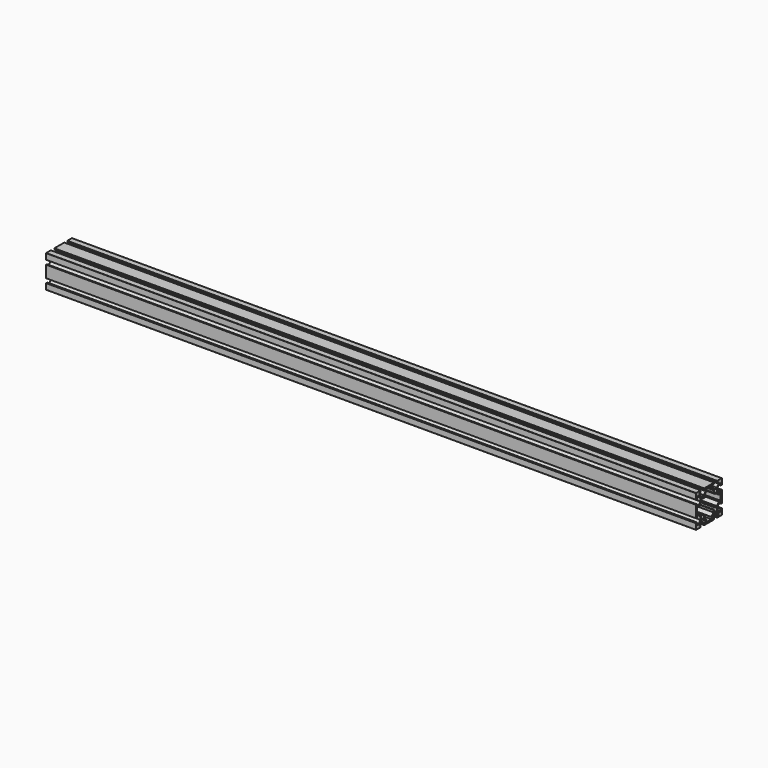
from build123d import *

# Parameters (mm, degrees)
F1_DEPTH = 1200
F2_R     = 0.5


with BuildPart() as f1:
    # F0 (on Right) → F1 (new body)
    with BuildSketch(Plane.YZ):
        with BuildLine():
            Line((-47.932279, 54.389084), (-46.610482, 52.97405))
            Line((-46.610482, 52.97405), (-42.981779, 49.089383))
            Line((-42.981779, 49.089383), (-42.981779, 45.339383))
            Line((-42.981779, 45.339383), (-31.658049, 45.339383))
            Line((-31.658049, 45.339383), (-31.658049, 49.089383))
            Line((-31.658049, 49.089383), (-26.70755, 54.389084))
            Line((-26.70755, 54.389084), (-26.70755, 58.361686))
            Line((-26.70755, 58.361686), (-25.56953, 58.361686))
            ThreePointArc((-25.56953, 58.361686), (-19.915751, 54.957523), (-23.319914, 60.611301))
            Line((-23.319914, 60.611301), (-23.319914, 61.749321))
            Line((-23.319914, 61.749321), (-19.347313, 61.749321))
            Line((-19.347313, 61.749321), (-14.047611, 66.699821))
            Line((-14.047611, 66.699821), (-10.297611, 66.699821))
            Line((-10.297611, 66.699821), (-10.297611, 78.02355))
            Line((-10.297611, 78.02355), (-14.047611, 78.02355))
            Line((-14.047611, 78.02355), (-19.347313, 82.97405))
            Line((-19.347313, 82.97405), (-23.319914, 82.97405))
            Line((-23.319914, 82.97405), (-23.319914, 84.11207))
            ThreePointArc((-23.319914, 84.11207), (-19.915751, 89.765849), (-25.56953, 86.361686))
            Line((-25.56953, 86.361686), (-26.70755, 86.361686))
            Line((-26.70755, 86.361686), (-26.70755, 90.334287))
            Line((-26.70755, 90.334287), (-31.658049, 95.633989))
            Line((-31.658049, 95.633989), (-31.658049, 99.383989))
            Line((-31.658049, 99.383989), (-42.981779, 99.383989))
            Line((-42.981779, 99.383989), (-42.981779, 95.633989))
            Line((-42.981779, 95.633989), (-47.932279, 90.334287))
            Line((-47.932279, 90.334287), (-47.932279, 86.361686))
            Line((-47.932279, 86.361686), (-49.070299, 86.361686))
            ThreePointArc((-49.070299, 86.361686), (-54.724077, 89.765849), (-51.319914, 84.11207))
            Line((-51.319914, 84.11207), (-51.319914, 82.97405))
            Line((-51.319914, 82.97405), (-55.292516, 82.97405))
            Line((-55.292516, 82.97405), (-60.592217, 78.02355))
            Line((-60.592217, 78.02355), (-64.342217, 78.02355))
            Line((-64.342217, 78.02355), (-64.342217, 66.699821))
            Line((-64.342217, 66.699821), (-60.592217, 66.699821))
            Line((-60.592217, 66.699821), (-55.292516, 61.749321))
            Line((-55.292516, 61.749321), (-52.030215, 61.749321))
            Line((-52.030215, 61.749321), (-52.030215, 60.749321))
            ThreePointArc((-52.030215, 60.749321), (-54.454601, 54.715346), (-49.070299, 58.361686))
            Line((-49.070299, 58.361686), (-47.932279, 58.361686))
            Line((-47.932279, 58.361686), (-47.932279, 54.389084))
        make_face()
        Polygon((-7.319914, 91.383989), (-7.319914, 102.361686), (-18.319914, 102.361686), (-18.319914, 99.449821), (-15.008826, 99.449821), (-15.008826, 96.393839), (-19.347313, 91.749321), (-23.120943, 91.749321), (-25.292516, 91.749321), (-29.631003, 96.393839), (-29.631003, 99.315412), (-29.631003, 100.315412), (-25.381003, 100.315412), (-25.381003, 102.361686), (-48.319914, 102.361686), (-48.319914, 100.361686), (-45.008826, 100.361686), (-45.008826, 96.393839), (-49.347313, 91.749321), (-55.292516, 91.749321), (-59.631003, 96.393839), (-59.631003, 99.449821), (-56.319914, 99.449821), (-56.319914, 102.361686), (-67.319914, 102.361686), (-67.319914, 91.361686), (-64.408049, 91.361686), (-64.408049, 95.633989), (-61.658049, 95.633989), (-56.70755, 90.334287), (-56.70755, 84.389084), (-61.352068, 80.050597), (-65.319914, 80.050597), (-65.319914, 83.361686), (-67.319914, 83.361686), (-67.319914, 61.361686), (-65.319914, 61.361686), (-65.319914, 64.672774), (-61.352068, 64.672774), (-56.70755, 60.334287), (-56.70755, 54.389084), (-61.658049, 49.089383), (-64.408049, 49.089383), (-64.408049, 53.361686), (-67.319914, 53.361686), (-67.319914, 42.361686), (-56.319914, 42.361686), (-56.319914, 45.27355), (-59.631003, 45.27355), (-59.631003, 48.329532), (-55.292516, 52.97405), (-49.347313, 52.97405), (-45.008826, 48.329532), (-45.008826, 44.361686), (-48.319914, 44.361686), (-48.319914, 42.361686), (-25.381003, 42.361686), (-25.381003, 44.407959), (-29.631003, 44.407959), (-29.631003, 45.407959), (-29.631003, 48.329532), (-25.292516, 52.97405), (-23.120943, 52.97405), (-19.347313, 52.97405), (-15.008826, 48.329532), (-15.008826, 45.27355), (-18.319914, 45.27355), (-18.319914, 42.361686), (-7.319914, 42.361686), (-7.319914, 53.339383), (-10.231779, 53.339383), (-10.231779, 49.089383), (-12.981779, 49.089383), (-17.932279, 54.389084), (-17.932279, 60.334287), (-13.28776, 64.672774), (-9.319914, 64.672774), (-9.319914, 61.361686), (-7.319914, 61.361686), (-7.319914, 83.361686), (-9.319914, 83.361686), (-9.319914, 80.050597), (-13.28776, 80.050597), (-17.932279, 84.389084), (-17.932279, 90.334287), (-12.981779, 95.633989), (-10.231779, 95.633989), (-10.231779, 91.383989), align=None)
        with BuildLine():
            Line((-42.981779, 49.089383), (-46.610482, 52.97405))
            Line((-46.610482, 52.97405), (-47.932279, 54.389084))
            Line((-47.932279, 54.389084), (-47.932279, 58.361686))
            Line((-47.932279, 58.361686), (-49.070299, 58.361686))
            ThreePointArc((-49.070299, 58.361686), (-54.454601, 54.715346), (-52.030215, 60.749321))
            Line((-52.030215, 60.749321), (-52.030215, 61.749321))
            Line((-52.030215, 61.749321), (-55.292516, 61.749321))
            Line((-55.292516, 61.749321), (-60.592217, 66.699821))
            Line((-60.592217, 66.699821), (-64.342217, 66.699821))
            Line((-64.342217, 66.699821), (-64.342217, 78.02355))
            Line((-64.342217, 78.02355), (-60.592217, 78.02355))
            Line((-60.592217, 78.02355), (-55.292516, 82.97405))
            Line((-55.292516, 82.97405), (-51.319914, 82.97405))
            Line((-51.319914, 82.97405), (-51.319914, 84.11207))
            ThreePointArc((-51.319914, 84.11207), (-54.724077, 89.765849), (-49.070299, 86.361686))
            Line((-49.070299, 86.361686), (-47.932279, 86.361686))
            Line((-47.932279, 86.361686), (-47.932279, 90.334287))
            Line((-47.932279, 90.334287), (-42.981779, 95.633989))
            Line((-42.981779, 95.633989), (-42.981779, 99.383989))
            Line((-42.981779, 99.383989), (-31.658049, 99.383989))
            Line((-31.658049, 99.383989), (-31.658049, 95.633989))
            Line((-31.658049, 95.633989), (-26.70755, 90.334287))
            Line((-26.70755, 90.334287), (-26.70755, 86.361686))
            Line((-26.70755, 86.361686), (-25.56953, 86.361686))
            ThreePointArc((-25.56953, 86.361686), (-19.915751, 89.765849), (-23.319914, 84.11207))
            Line((-23.319914, 84.11207), (-23.319914, 82.97405))
            Line((-23.319914, 82.97405), (-19.347313, 82.97405))
            Line((-19.347313, 82.97405), (-14.047611, 78.02355))
            Line((-14.047611, 78.02355), (-10.297611, 78.02355))
            Line((-10.297611, 78.02355), (-10.297611, 66.699821))
            Line((-10.297611, 66.699821), (-14.047611, 66.699821))
            Line((-14.047611, 66.699821), (-19.347313, 61.749321))
            Line((-19.347313, 61.749321), (-23.319914, 61.749321))
            Line((-23.319914, 61.749321), (-23.319914, 60.611301))
            ThreePointArc((-23.319914, 60.611301), (-19.915751, 54.957523), (-25.56953, 58.361686))
            Line((-25.56953, 58.361686), (-26.70755, 58.361686))
            Line((-26.70755, 58.361686), (-26.70755, 54.389084))
            Line((-26.70755, 54.389084), (-31.658049, 49.089383))
            Line((-31.658049, 49.089383), (-31.658049, 45.339383))
            Line((-31.658049, 45.339383), (-42.981779, 45.339383))
            Line((-42.981779, 45.339383), (-42.981779, 49.089383))
        make_face(mode=Mode.SUBTRACT)
    extrude(amount=-F1_DEPTH)

    # F2
    f2_edges = [f1.edges().sort_by_distance(p)[0] for p in [
        (-600, -7.319914, 102.361686),
        (-600, -67.319914, 102.361686),
        (-600, -7.319914, 42.361686),
        (-600, -67.319914, 42.361686),
    ]]
    fillet(f2_edges, radius=F2_R)


solid = f1.part
